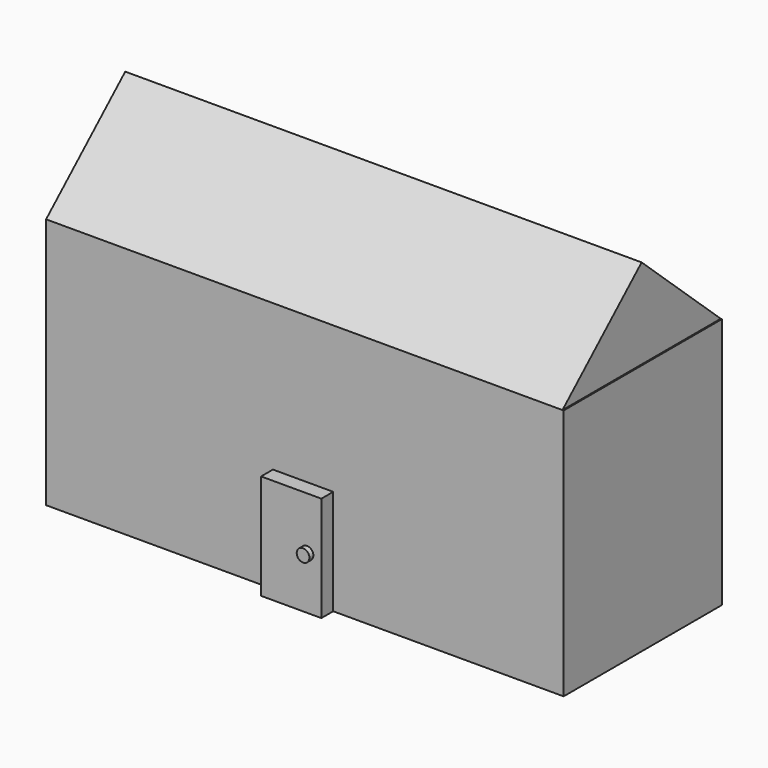
from build123d import *

# Parameters (mm, degrees)
F0_W     = 132.888824
F0_H     = 64.624012
F1_DEPTH = 25.4
F2_W     = 15.473353
F2_H     = 27.002521
F3_DEPTH = 3.81
F4_R     = 1.62741
F5_DEPTH = 1.27
F7_DEPTH = 132.588


with BuildPart() as f1:
    # F0 (on Front) → F1 (new body, symmetric)
    with BuildSketch(Plane.XZ):
        Rectangle(F0_W, F0_H)
    extrude(amount=F1_DEPTH, both=True)

    # F2 (on face) → F3 (join)
    with BuildSketch(Plane.XZ.offset(25.4)):
        with Locations((-0.455099, -18.810745)):
            Rectangle(F2_W, F2_H)
    extrude(amount=F3_DEPTH)

    # F4 (on face) → F5 (join)
    with BuildSketch(Plane.XZ.offset(29.21)):
        with Locations((3.599366, -18.810746)):
            Circle(F4_R)
    extrude(amount=F5_DEPTH)

    # F6 (on face) → F7 (join)
    with BuildSketch(Plane(origin=(-66.444412, 0, 0), x_dir=(0, -1, 0), z_dir=(-1, 0, 0))):
        Polygon((25.4, 32.312006), (0, 55.370338), (-25.4, 32.312006), align=None)
    extrude(amount=-F7_DEPTH)


solid = f1.part
